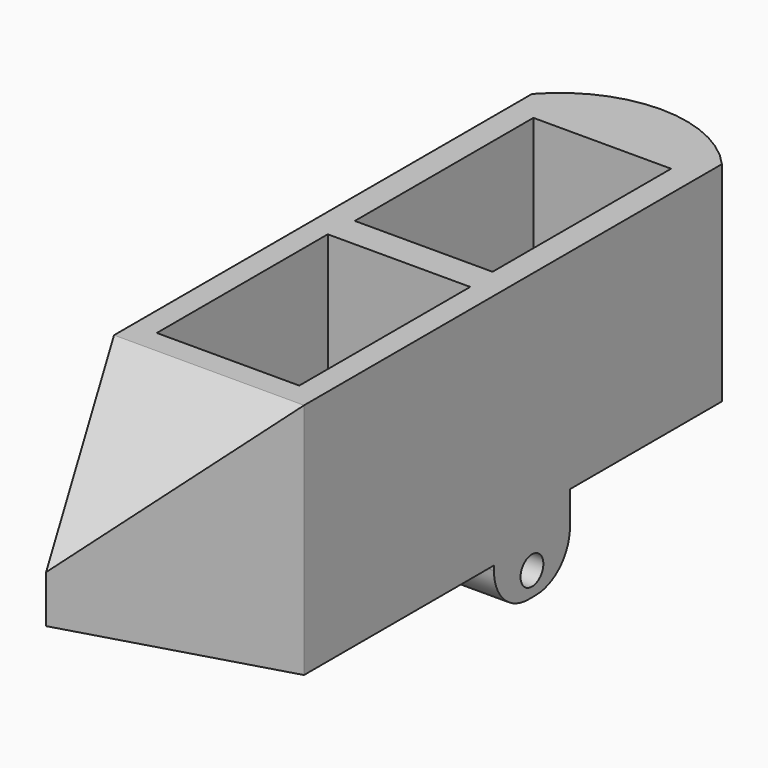
from build123d import *

# Parameters (mm, degrees)
SKETCH_W        = 29
SKETCH_H        = 47
PAD_DEPTH       = 40
SKETCH001_R     = 9.75
PAD001_DEPTH    = 10
SKETCH002_W     = 56
SKETCH002_H     = 6
POCKET_DEPTH    = 100
POCKET001_DEPTH = 5
SKETCH005_R     = 0.8
POCKET002_DEPTH = 5
SKETCH006_W     = 40
SKETCH006_H     = 20
PAD002_DEPTH    = 10
FILLET_R        = 9
FILLET001_R     = 9
SKETCH007_R     = 3
HOLE_DEPTH      = 50
SKETCH008_W     = 45
SKETCH008_H     = 54
POCKET003_DEPTH = 5
SKETCH009_W     = 40
SKETCH009_H     = 5
PAD003_DEPTH    = 50
PAD004_DEPTH    = 45
SKETCH011_W     = 40
SKETCH011_H     = 50
PAD005_DEPTH    = 50
POCKET004_DEPTH = 60.001
POCKET005_DEPTH = 40.001


with BuildPart() as part:
    # Sketch → Pad (new body)
    with BuildSketch(Plane.XY.offset(10)):
        with BuildLine():
            Line((0, 0), (40, 0))
            Line((40, 0), (40, 60))
            ThreePointArc((40, 60), (20, 68.990653), (0, 60))
            Line((0, 60), (0, 0))
        make_face()
        with Locations((20, 30)):
            Rectangle(SKETCH_W, SKETCH_H, mode=Mode.SUBTRACT)
    extrude(amount=PAD_DEPTH)

    # Sketch001 (on Face9 of Pad) → Pad001 (join)
    with BuildSketch(Plane(origin=(0, 0, 10), x_dir=(1, 0, 0), z_dir=(0, 0, -1))):
        with BuildLine():
            Line((40, -60), (40, 30))
            ThreePointArc((40, 30), (20, 50), (0, 30))
            Line((0, 30), (0, -60))
            ThreePointArc((0, -60), (20, -68.990653), (40, -60))
        make_face()
        with Locations((20, -42.25)):
            Circle(SKETCH001_R, mode=Mode.SUBTRACT)
    extrude(amount=PAD001_DEPTH)

    # Sketch002 (on Face7 of Pad001) → Pocket (cut)
    with BuildSketch(Plane(origin=(0, 0, 0), x_dir=(0, -1, 0), z_dir=(-1, 0, 0))):
        with Locations((-48, 3)):
            Rectangle(SKETCH002_W, SKETCH002_H)
    extrude(amount=-POCKET_DEPTH, mode=Mode.SUBTRACT)

    # Sketch003 (on Face4 of Pocket) → Pocket001 (cut)
    with BuildSketch(Plane.XY.offset(10)):
        with BuildLine():
            Line((0, 0), (40, 0))
            Line((40, 0), (40, -30))
            ThreePointArc((0, -30), (20, -50), (40, -30))
            Line((0, -30), (0, 0))
        make_face()
    extrude(amount=-POCKET001_DEPTH, mode=Mode.SUBTRACT)

    # Sketch005 → Pocket002 (cut)
    with BuildSketch(Plane(origin=(0, 0, 0), x_dir=(1, 0, 0), z_dir=(0, 0, -1))):
        with Locations((11.98, 30)):
            Circle(SKETCH005_R)
        with Locations((14.34, 35.7)):
            Circle(SKETCH005_R)
        with Locations((20, 37.98)):
            Circle(SKETCH005_R)
        with Locations((25.66, 35.7)):
            Circle(SKETCH005_R)
        with Locations((28.02, 30)):
            Circle(SKETCH005_R)
        with Locations((25.66, 24.35)):
            Circle(SKETCH005_R)
        with Locations((20, 22.02)):
            Circle(SKETCH005_R)
        with Locations((14.34, 24.34)):
            Circle(SKETCH005_R)
    extrude(amount=-POCKET002_DEPTH, mode=Mode.SUBTRACT)

    # Sketch006 (on Face17 of Pocket002) → Pad002 (join)
    with BuildSketch(Plane(origin=(0, 0, 0), x_dir=(1, 0, 0), z_dir=(0, 0, -1))):
        with Locations((20, -10)):
            Rectangle(SKETCH006_W, SKETCH006_H)
    extrude(amount=PAD002_DEPTH)

    # Fillet
    fillet_edges = [part.edges().sort_by_distance(p)[0] for p in [
        (20, 0, -10),
    ]]
    fillet(fillet_edges, radius=FILLET_R)

    # Fillet001
    fillet001_edges = [part.edges().sort_by_distance(p)[0] for p in [
        (20, 20, -10),
    ]]
    fillet(fillet001_edges, radius=FILLET001_R)

    # Sketch007 (on Face8 of Fillet001) → Hole (cut)
    with BuildSketch(Plane.YZ.offset(40)):
        with Locations((10, -5)):
            Circle(SKETCH007_R)
    extrude(amount=-HOLE_DEPTH, mode=Mode.SUBTRACT)

    # Sketch008 (on Face16 of Hole) → Pocket003 (cut)
    with BuildSketch(Plane.XY.offset(5)):
        with Locations((22.5, -27)):
            Rectangle(SKETCH008_W, SKETCH008_H)
    extrude(amount=-POCKET003_DEPTH, mode=Mode.SUBTRACT)

    # Sketch009 (on Face11 of Pocket003) → Pad003 (join)
    with BuildSketch(Plane.XZ):
        with Locations((20, 2.5)):
            Rectangle(SKETCH009_W, SKETCH009_H)
    extrude(amount=PAD003_DEPTH)

    # Sketch010 (on Face22 of Pad003) → Pad004 (join)
    with BuildSketch(Plane.XY.offset(5)):
        Polygon((0, 0), (0, -50), (40, -50), (40, 0), (35, 0), (35, -45), (5, -45), (5, 0), align=None)
    extrude(amount=PAD004_DEPTH)

    # Sketch011 (on Face22 of Pad004) → Pad005 (join)
    with BuildSketch(Plane.XZ.offset(50)):
        with Locations((20, 25)):
            Rectangle(SKETCH011_W, SKETCH011_H)
    extrude(amount=PAD005_DEPTH)

    # Sketch012 (on Face30 of Pad005) → Pocket004 (cut, through all)
    with BuildSketch(Plane.XY.offset(50)):
        Polygon((40, -50), (20, -92.890138), (0, -50), (0, -100), (40, -100), align=None)
    extrude(amount=-POCKET004_DEPTH, mode=Mode.SUBTRACT)

    # Sketch013 (on Face15 of Pocket004) → Pocket005 (cut, through all)
    with BuildSketch(Plane(origin=(0, 0, 0), x_dir=(0, -1, 0), z_dir=(-1, 0, 0))):
        Polygon((50, 0), (95, 0), (95, 50), (50, 50), (99.846928, 26.755996), (99.846928, 23.244004), align=None)
    extrude(amount=-POCKET005_DEPTH, mode=Mode.SUBTRACT)


solid = part.part
